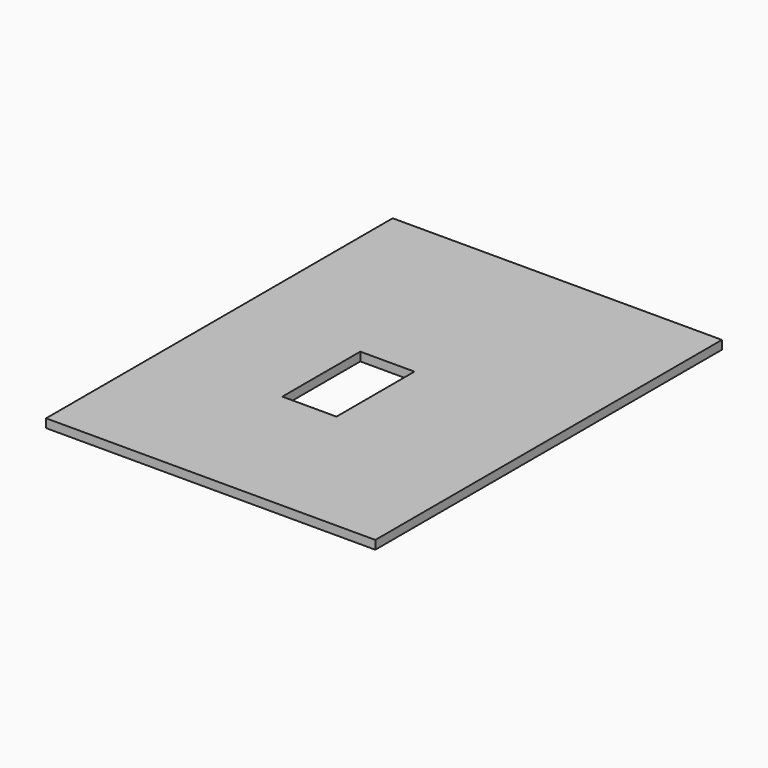
from build123d import *

# Parameters (mm, degrees)
SKETCH_W     = 76
SKETCH_H     = 100
PAD_DEPTH    = 2
SKETCH001_W  = 12.5
SKETCH001_H  = 22.5
POCKET_DEPTH = 5


with BuildPart() as part:
    # Sketch → Pad (new body)
    with BuildSketch(Plane.XY):
        Rectangle(SKETCH_W, SKETCH_H)
    extrude(amount=PAD_DEPTH)

    # Sketch001 (on Face6 of Pad) → Pocket (cut)
    with BuildSketch(Plane.XY.offset(2)):
        with Locations((-3.786031, -5.546731)):
            Rectangle(SKETCH001_W, SKETCH001_H)
    extrude(amount=-POCKET_DEPTH, mode=Mode.SUBTRACT)


solid = part.part
